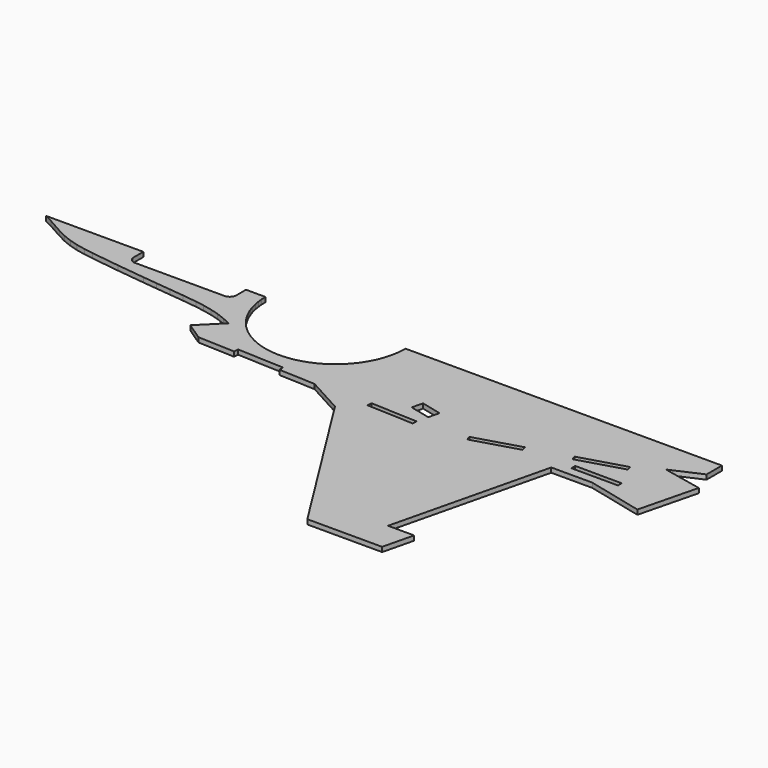
from build123d import *

# Parameters (mm, degrees)
PAD006_DEPTH = 5


with BuildPart() as part:
    # Sketch → Pad006 (new body)
    with BuildSketch(Plane.XY):
        with BuildLine():
            add(Edge.make_bspline(
                [(348.496572, -118.44405), (348.355461, -119.819884)],
                knots=[0, 0, 3.920459, 3.920459], degree=1))
            add(Edge.make_bspline(
                [(348.355461, -119.819884), (347.932128, -121.125161)],
                knots=[0, 0, 3.88973, 3.88973], degree=1))
            add(Edge.make_bspline(
                [(347.932128, -121.125161), (347.297128, -122.324606)],
                knots=[0, 0, 3.847077, 3.847077], degree=1))
            add(Edge.make_bspline(
                [(347.297128, -122.324606), (346.415184, -123.382939)],
                knots=[0, 0, 3.905125, 3.905125], degree=1))
            add(Edge.make_bspline(
                [(346.415184, -123.382939), (345.35685, -124.264884)],
                knots=[0, 0, 3.905125, 3.905125], degree=1))
            add(Edge.make_bspline(
                [(345.35685, -124.264884), (344.157406, -124.899884)],
                knots=[0, 0, 3.847077, 3.847077], degree=1))
            add(Edge.make_bspline(
                [(344.157406, -124.899884), (342.852128, -125.287939)],
                knots=[0, 0, 3.860052, 3.860052], degree=1))
            add(Edge.make_bspline(
                [(342.852128, -125.287939), (341.476295, -125.42905)],
                knots=[0, 0, 3.920459, 3.920459], degree=1))
            add(Edge.make_bspline(
                [(245.485464, -125.42905), (341.476295, -125.42905)],
                knots=[0, 0, 272.1, 272.1], degree=1))
            add(Edge.make_bspline(
                [(245.485464, -125.42905), (244.10963, -125.287939)],
                knots=[0, 0, 3.920459, 3.920459], degree=1))
            add(Edge.make_bspline(
                [(244.10963, -125.287939), (242.804353, -124.899884)],
                knots=[0, 0, 3.860052, 3.860052], degree=1))
            add(Edge.make_bspline(
                [(242.804353, -124.899884), (241.604908, -124.264884)],
                knots=[0, 0, 3.847077, 3.847077], degree=1))
            add(Edge.make_bspline(
                [(241.604908, -124.264884), (240.546575, -123.382939)],
                knots=[0, 0, 3.905125, 3.905125], degree=1))
            add(Edge.make_bspline(
                [(240.546575, -123.382939), (239.66463, -122.324606)],
                knots=[0, 0, 3.905125, 3.905125], degree=1))
            add(Edge.make_bspline(
                [(239.66463, -122.324606), (239.02963, -121.125161)],
                knots=[0, 0, 3.847077, 3.847077], degree=1))
            add(Edge.make_bspline(
                [(239.02963, -121.125161), (238.606297, -119.819884)],
                knots=[0, 0, 3.88973, 3.88973], degree=1))
            add(Edge.make_bspline(
                [(238.606297, -119.819884), (238.465186, -118.44405)],
                knots=[0, 0, 3.920459, 3.920459], degree=1))
            add(Edge.make_bspline(
                [(238.465186, -105.426551), (238.465186, -118.44405)],
                knots=[0, 0, 36.9, 36.9], degree=1))
            add(Edge.make_bspline(
                [(134.325188, -105.426551), (238.465186, -105.426551)],
                knots=[0, 0, 295.2, 295.2], degree=1))
            add(Edge.make_bspline(
                [(134.325188, -105.426551), (143.003521, -109.836273)],
                knots=[0, 0, 27.593659, 27.593659], degree=1))
            add(Edge.make_bspline(
                [(143.003521, -109.836273), (151.540743, -114.669328)],
                knots=[0, 0, 27.808812, 27.808812], degree=1))
            add(Edge.make_bspline(
                [(151.540743, -114.669328), (160.148521, -119.502384)],
                knots=[0, 0, 27.983031, 27.983031], degree=1))
            add(Edge.make_bspline(
                [(160.148521, -119.502384), (168.89741, -123.912106)],
                knots=[0, 0, 27.772108, 27.772108], degree=1))
            add(Edge.make_bspline(
                [(168.89741, -123.912106), (177.928521, -127.510439)],
                knots=[0, 0, 27.557213, 27.557213], degree=1))
            add(Edge.make_bspline(
                [(177.928521, -127.510439), (187.312409, -130.226828)],
                knots=[0, 0, 27.692057, 27.692057], degree=1))
            add(Edge.make_bspline(
                [(187.312409, -130.226828), (196.907965, -132.202383)],
                knots=[0, 0, 27.770488, 27.770488], degree=1))
            add(Edge.make_bspline(
                [(196.907965, -132.202383), (206.644631, -133.754606)],
                knots=[0, 0, 27.948524, 27.948524], degree=1))
            add(Edge.make_bspline(
                [(206.644631, -133.754606), (237.230464, -137.776272)],
                knots=[0, 0, 87.446269, 87.446269], degree=1))
            add(Edge.make_bspline(
                [(237.230464, -137.776272), (267.710463, -141.374605)],
                knots=[0, 0, 87, 87], degree=1))
            add(Edge.make_bspline(
                [(267.710463, -141.374605), (282.950463, -143.032661)],
                knots=[0, 0, 43.454919, 43.454919], degree=1))
            add(Edge.make_bspline(
                [(282.950463, -143.032661), (298.261018, -144.655439)],
                knots=[0, 0, 43.643098, 43.643098], degree=1))
            add(Edge.make_bspline(
                [(298.261018, -144.655439), (313.606851, -146.278216)],
                knots=[0, 0, 43.742542, 43.742542], degree=1))
            add(Edge.make_bspline(
                [(313.606851, -146.278216), (328.882128, -148.183216)],
                knots=[0, 0, 43.635421, 43.635421], degree=1))
            add(Edge.make_bspline(
                [(328.882128, -148.183216), (338.407128, -149.770716)],
                knots=[0, 0, 27.372431, 27.372431], degree=1))
            add(Edge.make_bspline(
                [(338.407128, -149.770716), (347.826295, -151.78155)],
                knots=[0, 0, 27.301648, 27.301648], degree=1))
            add(Edge.make_bspline(
                [(347.826295, -151.78155), (357.10435, -154.427383)],
                knots=[0, 0, 27.348492, 27.348492], degree=1))
            add(Edge.make_bspline(
                [(357.10435, -154.427383), (366.135461, -157.81405)],
                knots=[0, 0, 27.340812, 27.340812], degree=1))
            add(Edge.make_bspline(
                [(366.135461, -157.81405), (374.990183, -162.047383)],
                knots=[0, 0, 27.821035, 27.821035], degree=1))
            add(Edge.make_bspline(
                [(374.990183, -162.047383), (352.306572, -184.730993)],
                knots=[0, 0, 90.933932, 90.933932], degree=1))
            add(Edge.make_bspline(
                [(352.306572, -184.730993), (371.003794, -197.32516)],
                knots=[0, 0, 63.902191, 63.902191], degree=1))
            add(Edge.make_bspline(
                [(371.003794, -197.32516), (410.58546, -199.018493)],
                knots=[0, 0, 112.302627, 112.302627], degree=1))
            add(Edge.make_bspline(
                [(410.797127, -194.009049), (410.58546, -199.018493)],
                knots=[0, 0, 14.21267, 14.21267], degree=1))
            add(Edge.make_bspline(
                [(460.750459, -196.160993), (410.797127, -194.009049)],
                knots=[0, 0, 141.73133, 141.73133], degree=1))
            add(Edge.make_bspline(
                [(460.750459, -201.13516), (460.750459, -196.160993)],
                knots=[0, 0, 14.1, 14.1], degree=1))
            add(Edge.make_bspline(
                [(460.750459, -201.13516), (499.873514, -202.828493)],
                knots=[0, 0, 111.003829, 111.003829], degree=1))
            add(Edge.make_bspline(
                [(499.873514, -202.828493), (538.679068, -224.030437)],
                knots=[0, 0, 125.347557, 125.347557], degree=1))
            add(Edge.make_bspline(
                [(538.679068, -224.030437), (648.216566, -397.985155)],
                knots=[0, 0, 582.715934, 582.715934], degree=1))
            add(Edge.make_bspline(
                [(648.216566, -397.985155), (728.367675, -397.985155)],
                knots=[0, 0, 227.2, 227.2], degree=1))
            add(Edge.make_bspline(
                [(728.367675, -397.985155), (736.340453, -365.106267)],
                knots=[0, 0, 95.900991, 95.900991], degree=1))
            add(Edge.make_bspline(
                [(708.329898, -365.106267), (736.340453, -365.106267)],
                knots=[0, 0, 79.4, 79.4], degree=1))
            add(Edge.make_bspline(
                [(749.005175, -197.32516), (708.329898, -365.106267)],
                knots=[0, 0, 489.376593, 489.376593], degree=1))
            add(Edge.make_bspline(
                [(749.005175, -197.32516), (792.996563, -197.32516)],
                knots=[0, 0, 124.7, 124.7], degree=1))
            add(Edge.make_bspline(
                [(792.996563, -197.32516), (852.898228, -211.824326)],
                knots=[0, 0, 174.70332, 174.70332], degree=1))
            add(Edge.make_bspline(
                [(852.898228, -211.824326), (868.561561, -149.206272)],
                knots=[0, 0, 182.968877, 182.968877], degree=1))
            add(Edge.make_bspline(
                [(868.561561, -149.206272), (826.298784, -140.316272)],
                knots=[0, 0, 122.42173, 122.42173], degree=1))
            add(Edge.make_bspline(
                [(826.298784, -140.316272), (858.331006, -126.028772)],
                knots=[0, 0, 99.422784, 99.422784], degree=1))
            add(Edge.make_bspline(
                [(858.331006, -126.028772), (858.331006, -105.426551)],
                knots=[0, 0, 58.4, 58.4], degree=1))
            add(Edge.make_bspline(
                [(519.346846, -105.426551), (858.331006, -105.426551)],
                knots=[0, 0, 960.9, 960.9], degree=1))
            add(Edge.make_bspline(
                [(519.170458, -110.682939), (519.346846, -105.426551)],
                knots=[0, 0, 14.908387, 14.908387], degree=1))
            add(Edge.make_bspline(
                [(518.606013, -115.868773), (519.170458, -110.682939)],
                knots=[0, 0, 14.786818, 14.786818], degree=1))
            add(Edge.make_bspline(
                [(517.688791, -121.019328), (518.606013, -115.868773)],
                knots=[0, 0, 14.8297, 14.8297], degree=1))
            add(Edge.make_bspline(
                [(516.418791, -126.099328), (517.688791, -121.019328)],
                knots=[0, 0, 14.84318, 14.84318], degree=1))
            add(Edge.make_bspline(
                [(514.831291, -131.073495), (516.418791, -126.099328)],
                knots=[0, 0, 14.800676, 14.800676], degree=1))
            add(Edge.make_bspline(
                [(512.855735, -135.941828), (514.831291, -131.073495)],
                knots=[0, 0, 14.892951, 14.892951], degree=1))
            add(Edge.make_bspline(
                [(510.56268, -140.633772), (512.855735, -135.941828)],
                knots=[0, 0, 14.803378, 14.803378], degree=1))
            add(Edge.make_bspline(
                [(507.952124, -145.184605), (510.56268, -140.633772)],
                knots=[0, 0, 14.871785, 14.871785], degree=1))
            add(Edge.make_bspline(
                [(505.024069, -149.523772), (507.952124, -145.184605)],
                knots=[0, 0, 14.838464, 14.838464], degree=1))
            add(Edge.make_bspline(
                [(501.778513, -153.651272), (505.024069, -149.523772)],
                knots=[0, 0, 14.883884, 14.883884], degree=1))
            add(Edge.make_bspline(
                [(498.286014, -157.531827), (501.778513, -153.651272)],
                knots=[0, 0, 14.798986, 14.798986], degree=1))
            add(Edge.make_bspline(
                [(494.511291, -161.165438), (498.286014, -157.531827)],
                knots=[0, 0, 14.851936, 14.851936], degree=1))
            add(Edge.make_bspline(
                [(490.524903, -164.552105), (494.511291, -161.165438)],
                knots=[0, 0, 14.82734, 14.82734], degree=1))
            add(Edge.make_bspline(
                [(486.291569, -167.621272), (490.524903, -164.552105)],
                knots=[0, 0, 14.821943, 14.821943], degree=1))
            add(Edge.make_bspline(
                [(481.846569, -170.408216), (486.291569, -167.621272)],
                knots=[0, 0, 14.871785, 14.871785], degree=1))
            add(Edge.make_bspline(
                [(477.225181, -172.842383), (481.846569, -170.408216)],
                knots=[0, 0, 14.80608, 14.80608], degree=1))
            add(Edge.make_bspline(
                [(472.427403, -174.994327), (477.225181, -172.842383)],
                knots=[0, 0, 14.905368, 14.905368], degree=1))
            add(Edge.make_bspline(
                [(467.523792, -176.758216), (472.427403, -174.994327)],
                knots=[0, 0, 14.771933, 14.771933], degree=1))
            add(Edge.make_bspline(
                [(462.47907, -178.204605), (467.523792, -176.758216)],
                knots=[0, 0, 14.876155, 14.876155], degree=1))
            add(Edge.make_bspline(
                [(457.363792, -179.298216), (462.47907, -178.204605)],
                knots=[0, 0, 14.827677, 14.827677], degree=1))
            add(Edge.make_bspline(
                [(452.177959, -180.039049), (457.363792, -179.298216)],
                knots=[0, 0, 14.849242, 14.849242], degree=1))
            add(Edge.make_bspline(
                [(446.956848, -180.391827), (452.177959, -180.039049)],
                knots=[0, 0, 14.833745, 14.833745], degree=1))
            add(Edge.make_bspline(
                [(441.735737, -180.391827), (446.956848, -180.391827)],
                knots=[0, 0, 14.8, 14.8], degree=1))
            add(Edge.make_bspline(
                [(436.514626, -180.039049), (441.735737, -180.391827)],
                knots=[0, 0, 14.833745, 14.833745], degree=1))
            add(Edge.make_bspline(
                [(431.328793, -179.298216), (436.514626, -180.039049)],
                knots=[0, 0, 14.849242, 14.849242], degree=1))
            add(Edge.make_bspline(
                [(426.213515, -178.204605), (431.328793, -179.298216)],
                knots=[0, 0, 14.827677, 14.827677], degree=1))
            add(Edge.make_bspline(
                [(421.168793, -176.758216), (426.213515, -178.204605)],
                knots=[0, 0, 14.876155, 14.876155], degree=1))
            add(Edge.make_bspline(
                [(416.229904, -174.994327), (421.168793, -176.758216)],
                knots=[0, 0, 14.866069, 14.866069], degree=1))
            add(Edge.make_bspline(
                [(411.467404, -172.842383), (416.229904, -174.994327)],
                knots=[0, 0, 14.814182, 14.814182], degree=1))
            add(Edge.make_bspline(
                [(406.846016, -170.408216), (411.467404, -172.842383)],
                knots=[0, 0, 14.80608, 14.80608], degree=1))
            add(Edge.make_bspline(
                [(402.401016, -167.621272), (406.846016, -170.408216)],
                knots=[0, 0, 14.871785, 14.871785], degree=1))
            add(Edge.make_bspline(
                [(398.167682, -164.552105), (402.401016, -167.621272)],
                knots=[0, 0, 14.821943, 14.821943], degree=1))
            add(Edge.make_bspline(
                [(394.146016, -161.165438), (398.167682, -164.552105)],
                knots=[0, 0, 14.903691, 14.903691], degree=1))
            add(Edge.make_bspline(
                [(390.406571, -157.531827), (394.146016, -161.165438)],
                knots=[0, 0, 14.780054, 14.780054], degree=1))
            add(Edge.make_bspline(
                [(386.878794, -153.651272), (390.406571, -157.531827)],
                knots=[0, 0, 14.866069, 14.866069], degree=1))
            add(Edge.make_bspline(
                [(383.668516, -149.523772), (386.878794, -153.651272)],
                knots=[0, 0, 14.822281, 14.822281], degree=1))
            add(Edge.make_bspline(
                [(380.740461, -145.184605), (383.668516, -149.523772)],
                knots=[0, 0, 14.838464, 14.838464], degree=1))
            add(Edge.make_bspline(
                [(378.129905, -140.633772), (380.740461, -145.184605)],
                knots=[0, 0, 14.871785, 14.871785], degree=1))
            add(Edge.make_bspline(
                [(375.83685, -135.941828), (378.129905, -140.633772)],
                knots=[0, 0, 14.803378, 14.803378], degree=1))
            add(Edge.make_bspline(
                [(373.861294, -131.073495), (375.83685, -135.941828)],
                knots=[0, 0, 14.892951, 14.892951], degree=1))
            add(Edge.make_bspline(
                [(372.238516, -126.099328), (373.861294, -131.073495)],
                knots=[0, 0, 14.831386, 14.831386], degree=1))
            add(Edge.make_bspline(
                [(370.968516, -121.019328), (372.238516, -126.099328)],
                knots=[0, 0, 14.84318, 14.84318], degree=1))
            add(Edge.make_bspline(
                [(370.086572, -115.868773), (370.968516, -121.019328)],
                knots=[0, 0, 14.812495, 14.812495], degree=1))
            add(Edge.make_bspline(
                [(369.522127, -110.682939), (370.086572, -115.868773)],
                knots=[0, 0, 14.786818, 14.786818], degree=1))
            add(Edge.make_bspline(
                [(369.345739, -105.426551), (369.522127, -110.682939)],
                knots=[0, 0, 14.908387, 14.908387], degree=1))
            add(Edge.make_bspline(
                [(348.496572, -105.426551), (369.345739, -105.426551)],
                knots=[0, 0, 59.1, 59.1], degree=1))
            add(Edge.make_bspline(
                [(348.496572, -118.44405), (348.496572, -105.426551)],
                knots=[0, 0, 36.9, 36.9], degree=1))
        make_face()
        with BuildLine():
            add(Edge.make_bspline(
                [(592.689345, -173.547938), (614.561567, -178.839605)],
                knots=[0, 0, 63.788714, 63.788714], degree=1))
            add(Edge.make_bspline(
                [(614.561567, -178.839605), (611.739344, -190.516549)],
                knots=[0, 0, 34.053047, 34.053047], degree=1))
            add(Edge.make_bspline(
                [(589.867123, -185.224882), (611.739344, -190.516549)],
                knots=[0, 0, 63.788714, 63.788714], degree=1))
            add(Edge.make_bspline(
                [(589.867123, -185.224882), (592.689345, -173.547938)],
                knots=[0, 0, 34.053047, 34.053047], degree=1))
        make_face(mode=Mode.SUBTRACT)
        with BuildLine():
            add(Edge.make_bspline(
                [(753.450175, -174.570994), (801.392674, -160.318772)],
                knots=[0, 0, 141.77789, 141.77789], degree=1))
            add(Edge.make_bspline(
                [(801.392674, -160.318772), (799.946285, -155.520994)],
                knots=[0, 0, 14.204577, 14.204577], degree=1))
            add(Edge.make_bspline(
                [(799.946285, -155.520994), (752.039064, -169.773216)],
                knots=[0, 0, 141.682038, 141.682038], degree=1))
            add(Edge.make_bspline(
                [(752.039064, -169.773216), (753.450175, -174.570994)],
                knots=[0, 0, 14.176036, 14.176036], degree=1))
        make_face(mode=Mode.SUBTRACT)
        with BuildLine():
            add(Edge.make_bspline(
                [(662.398232, -201.629049), (710.340731, -187.376827)],
                knots=[0, 0, 141.77789, 141.77789], degree=1))
            add(Edge.make_bspline(
                [(710.340731, -187.376827), (708.894342, -182.579049)],
                knots=[0, 0, 14.204577, 14.204577], degree=1))
            add(Edge.make_bspline(
                [(708.894342, -182.579049), (660.987121, -196.831271)],
                knots=[0, 0, 141.682038, 141.682038], degree=1))
            add(Edge.make_bspline(
                [(660.987121, -196.831271), (662.398232, -201.629049)],
                knots=[0, 0, 14.176036, 14.176036], degree=1))
        make_face(mode=Mode.SUBTRACT)
        with BuildLine():
            add(Edge.make_bspline(
                [(558.752123, -205.368493), (608.705456, -207.48516)],
                knots=[0, 0, 141.727062, 141.727062], degree=1))
            add(Edge.make_bspline(
                [(608.705456, -207.48516), (608.917122, -202.510993)],
                knots=[0, 0, 14.11276, 14.11276], degree=1))
            add(Edge.make_bspline(
                [(608.917122, -202.510993), (558.96379, -200.359049)],
                knots=[0, 0, 141.73133, 141.73133], degree=1))
            add(Edge.make_bspline(
                [(558.96379, -200.359049), (558.752123, -205.368493)],
                knots=[0, 0, 14.21267, 14.21267], degree=1))
        make_face(mode=Mode.SUBTRACT)
        with BuildLine():
            add(Edge.make_bspline(
                [(762.939897, -187.905993), (812.928507, -187.905993)],
                knots=[0, 0, 141.7, 141.7], degree=1))
            add(Edge.make_bspline(
                [(812.928507, -187.905993), (812.928507, -182.896549)],
                knots=[0, 0, 14.2, 14.2], degree=1))
            add(Edge.make_bspline(
                [(812.928507, -182.896549), (762.939897, -182.614327)],
                knots=[0, 0, 141.702258, 141.702258], degree=1))
            add(Edge.make_bspline(
                [(762.939897, -182.614327), (762.939897, -187.905993)],
                knots=[0, 0, 15, 15], degree=1))
        make_face(mode=Mode.SUBTRACT)
    extrude(amount=PAD006_DEPTH)


solid = part.part
